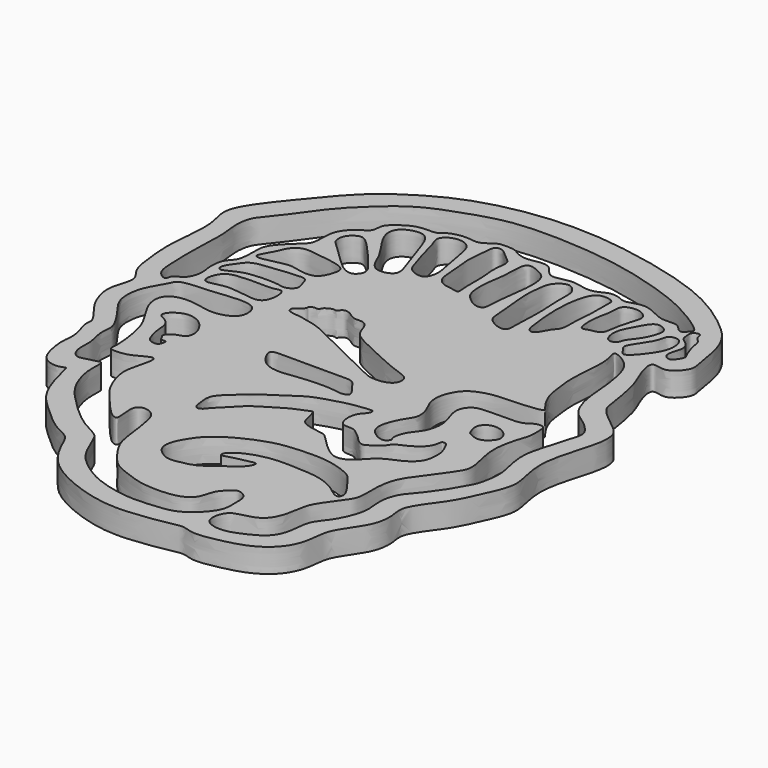
from build123d import *

# Parameters (mm, degrees)
F1_DEPTH = 6.35
F3_DEPTH = 6.35


with BuildPart() as f1:
    # F0 (on Top) → F1 (new body)
    with BuildSketch(Plane.XY):
        with BuildLine():
            add(Edge.make_bspline(
                [(57.3420971632, 19.5309109986), (58.6007502694, 17.8350979225), (63.1631906982, 14.7837725119), (65.7192379605, 11.7266263405), (65.2852353432, 6.5171671063), (63.3124977677, 0.5374782672), (61.7401040248, -6.2464160099), (62.0117362585, -11.2223538792), (63.3456826845, -16.3676346598), (63.2617116481, -20.0199297136), (60.3628025667, -26.6907168304), (57.5562496822, -32.4900621007), (54.1990561112, -36.694448129), (51.2332879467, -41.4674748525), (52.3532145245, -45.0370244781), (51.9247130212, -49.0842918835), (50.542552227, -52.2674079701), (46.1511647205, -58.284220045), (45.8206379188, -61.8232250464), (45.1815153517, -66.8554312845), (42.1928131847, -71.533264546), (36.9190061974, -74.8304506441), (30.1154298909, -76.3967815792), (24.5682467984, -77.3020438311), (21.5958733999, -75.8875942309), (19.169030203, -76.4484698519), (15.3832968822, -77.1799004378), (10.7803103798, -77.8196987402), (1.4372473986, -78.6986431695), (-11.5386004578, -74.3001147734), (-18.3270708536, -69.0656107595), (-21.3897181133, -63.0094824689), (-22.8951534736, -59.1783924003), (-27.6108341497, -57.7311616171), (-33.844883634, -51.8684019497), (-39.8715576725, -46.4828272222), (-42.0281559513, -35.4994488765), (-42.3651483631, -35.4090104114), (-44.3295795813, -36.4314480811), (-47.7985799514, -35.4675949418), (-49.636180417, -32.5249478057), (-50.6387988722, -26.3222545771), (-49.5982826341, -22.797147053), (-51.9104284224, -17.3618339214), (-50.7365911944, -15.3368894224), (-55.417422314, -10.2213755207), (-57.1525107853, -5.9577477562), (-58.1266139176, -1.2377946547), (-55.1929679224, 4.7922227911), (-58.9088402877, 7.5970461167), (-59.7646110245, 15.4670058788), (-60.3184686644, 22.0867653284), (-58.4617364493, 34.4086905126), (-62.065535147, 40.9166718965), (-53.6052029027, 51.6099161176), (-48.7662150174, 57.4763435719), (-42.736348953, 64.6190596252), (-33.7234931566, 70.9898685332), (-24.6838984976, 75.6529656089), (-12.4244284146, 79.005119082), (2.1196359962, 80.1707845401), (18.4021235012, 78.3573963952), (39.3158809141, 73.1840819106), (51.0394492301, 65.1034937377), (57.7083292271, 58.6270218611), (58.9505798802, 49.0454253791), (60.0034364774, 45.2023387777), (56.8316595987, 41.7279054633), (54.4939986432, 41.307479364), (51.1157418137, 42.517563137), (52.0299388674, 37.5336845076), (54.8950895547, 32.0916521126), (56.0495576012, 23.818191622), (56.3660280486, 20.8459919844), (57.3420971632, 19.5309109986)],
                knots=[0, 0, 0, 0, 0.0153737105, 0.0263934228, 0.03863439, 0.0530173302, 0.0677878357, 0.0804324458, 0.0931050771, 0.1037819905, 0.1187860968, 0.1332435296, 0.1464129053, 0.1592672907, 0.1698562757, 0.1808219412, 0.1915637969, 0.206621935, 0.2173371489, 0.2296965349, 0.2427593985, 0.2566243799, 0.2716505769, 0.2848599345, 0.294578999, 0.30320025, 0.3140584686, 0.3261074005, 0.3432425015, 0.3640732496, 0.3805187042, 0.3948666639, 0.4057373289, 0.4176617821, 0.4338199984, 0.4509338519, 0.4685814442, 0.4706946746, 0.4784820423, 0.4888285012, 0.4991414892, 0.5129295098, 0.5240600627, 0.5370434732, 0.5449119164, 0.5589943301, 0.5714264865, 0.5836105166, 0.5971643865, 0.6081930292, 0.6234465075, 0.6386061206, 0.6579918991, 0.6725962307, 0.6922791077, 0.7083501106, 0.7252465887, 0.7438778399, 0.7618093415, 0.7816926147, 0.8030182202, 0.8260013671, 0.8521321383, 0.8732019966, 0.8900348636, 0.907068579, 0.9180221242, 0.9293181588, 0.9381247609, 0.9468424262, 0.9573308866, 0.9720114511, 0.9880778874, 1, 1, 1, 1], degree=3))
        make_face()
    extrude(amount=-F1_DEPTH)

    # F2 (on Top) → F3 (cut)
    with BuildSketch(Plane.XY):
        with BuildLine():
            add(Edge.make_bspline(
                [(-27.8626866639, 37.7302952111), (-26.5948488448, 36.5245322897), (-24.9553026523, 35.0970190076), (-22.2896591809, 34.2008549465), (-20.6245032961, 36.1097855669), (-20.5625130615, 37.8343057887), (-23.1887841131, 41.2522964732), (-28.0898662924, 46.8527501901), (-29.9652758139, 48.4000448395), (-31.557219679, 49.138615945), (-34.5784235934, 47.0206882949), (-34.3393753913, 43.769310011), (-32.8753101088, 42.6914630589), (-29.5239765084, 39.3102462631), (-27.8626866639, 37.7302952111)],
                knots=[0, 0, 0, 0, 0.0955897208, 0.1674561834, 0.2358612461, 0.2928333978, 0.3899286566, 0.5203144924, 0.5927632596, 0.6494141727, 0.7337437652, 0.8118641407, 0.874745626, 1, 1, 1, 1], degree=3))
        make_face()
        with BuildLine():
            add(Edge.make_bspline(
                [(-23.0002496392, 44.4088205695), (-22.4209720095, 43.3219543573), (-21.919777866, 41.6565041752), (-20.1906789893, 39.2932102196), (-17.7436662316, 39.0492593034), (-15.3614268378, 39.9935228425), (-14.8527149343, 42.0883352347), (-16.7984721121, 47.0165364519), (-18.6855093935, 52.8659555397), (-20.0794978279, 56.5771009518), (-22.3716361977, 58.2688353189), (-26.7355835964, 57.0946632228), (-28.1958320217, 54.6151732048), (-27.7811957868, 52.1553112819), (-26.2542213259, 49.2590546017), (-23.7968846488, 45.903502275), (-23.0002496392, 44.4088205695)],
                knots=[0, 0, 0, 0, 0.068995189, 0.1324683654, 0.1921125308, 0.2517087692, 0.3037871831, 0.3933064251, 0.4933426271, 0.5698258813, 0.6314997006, 0.7111345672, 0.7745838826, 0.8332765921, 0.9051163376, 1, 1, 1, 1], degree=3))
        make_face()
        with BuildLine():
            add(Edge.make_bspline(
                [(-17.5519771874, 55.3053691983), (-17.8497891968, 56.1608562303), (-18.659880099, 57.763409061), (-17.3914596919, 59.7240926638), (-14.3822686309, 60.7923578106), (-11.3324947074, 59.5850470367), (-10.2308052017, 56.5006711445), (-9.4561587357, 50.8871216768), (-8.2267672678, 46.0537872841), (-9.364247451, 42.853825453), (-11.3130379641, 42.4794456604), (-14.204762177, 43.720070693), (-14.8013970836, 46.2125902148), (-16.8209434976, 51.9937803348), (-17.2060337086, 54.3116209595), (-17.5519771874, 55.3053691983)],
                knots=[0, 0, 0, 0, 0.0682756406, 0.1281706627, 0.2023391042, 0.274944474, 0.3493628437, 0.4519712719, 0.5487827964, 0.6211263871, 0.6766250433, 0.7477658232, 0.8154707814, 0.9206898585, 1, 1, 1, 1], degree=3))
        make_face()
        with BuildLine():
            add(Edge.make_bspline(
                [(-7.3584350757, 54.4851981103), (-7.3587699473, 55.9397973329), (-6.8454384435, 60.0851270457), (-6.7450837326, 62.4066516813), (-4.6523965352, 62.7978586199), (-3.0973048694, 61.2310500613), (-1.3355256252, 59.8422184682), (0.113312732, 58.6022839439), (-0.8197853249, 54.6658969318), (0.0029405113, 50.2243253883), (-0.3431190506, 45.191370053), (0.1793763552, 41.8064641333), (-0.7436619625, 42.1728713744), (-4.2116951194, 42.3444964568), (-6.3697651643, 44.0742120263), (-6.7813838835, 46.8316245123), (-7.0328276748, 52.3709270984), (-7.3582225434, 53.5620101111), (-7.3584350757, 54.4851981103)],
                knots=[0, 0, 0, 0, 0.0882259293, 0.1419860519, 0.1880015183, 0.2421182561, 0.2980027918, 0.3451568684, 0.4156138894, 0.4956788903, 0.5819227787, 0.6425830924, 0.6694115441, 0.7380186103, 0.7970686187, 0.8585708595, 0.9440058005, 1, 1, 1, 1], degree=3))
        make_face()
        with BuildLine():
            add(Edge.make_bspline(
                [(2.1906888578, 49.0955077112), (2.353857072, 50.5912377548), (2.9362751386, 52.9969946904), (2.8755876114, 57.2793648258), (3.1566641175, 59.8901106714), (4.5694244219, 60.7947106081), (7.3146917425, 59.5944112815), (9.3806420283, 58.4124645772), (10.2707567007, 55.1634503359), (9.7161050593, 48.9493665343), (8.7045758081, 42.8744805375), (8.9446598935, 39.5547889419), (6.4911072422, 39.1549240878), (3.472725969, 41.2970163063), (1.9623033376, 43.774826967), (2.0063130508, 47.40537195), (2.1906888578, 49.0955077112)],
                knots=[0, 0, 0, 0, 0.0787909455, 0.1594474558, 0.2204353933, 0.2646490314, 0.3302855041, 0.3895217702, 0.4570707293, 0.5556615718, 0.6549725237, 0.7193389488, 0.7715321231, 0.8447507992, 0.9109682959, 1, 1, 1, 1], degree=3))
        make_face()
        with BuildLine():
            add(Edge.make_bspline(
                [(12.3842312023, 42.6513142884), (12.1774034805, 44.8486192684), (11.5536737171, 49.7091642142), (12.082309728, 54.2676860932), (12.6585786438, 57.0354101887), (15.3495263385, 59.0889212288), (17.2398528639, 58.4660076201), (18.6506454375, 56.6025695836), (18.6633414544, 54.5656430319), (18.5972920332, 51.0054986147), (18.8587693007, 47.6484649864), (18.9513588167, 43.9089531264), (18.6598112199, 40.2355330574), (18.6864900207, 36.8067179675), (18.5734410686, 35.1736029717), (17.3583299911, 34.6777517133), (15.8491833136, 34.9021313285), (13.0461906612, 36.5100214324), (12.6704361685, 38.656587402), (12.5409227815, 40.9866477521), (12.3842312023, 42.6513142884)],
                knots=[0, 0, 0, 0, 0.0878149403, 0.1580169156, 0.2121328472, 0.2687057505, 0.3120577239, 0.3599445024, 0.4063846288, 0.4678650678, 0.5288704152, 0.5918730957, 0.6558980323, 0.7168683892, 0.7561672692, 0.789737075, 0.8304458414, 0.8873015588, 0.9334718695, 1, 1, 1, 1], degree=3))
        make_face()
        with BuildLine():
            add(Edge.make_bspline(
                [(25.6241187453, 40.7180562615), (25.00543232, 39.8018272344), (24.1446313225, 37.4483584667), (21.9664376315, 37.422989676), (21.3633819149, 41.0853954143), (20.6642614752, 47.7804812558), (21.1396619917, 54.089484371), (22.5263276197, 58.3590456597), (24.6866992029, 59.5210848238), (27.9759037213, 58.9032682586), (27.4367008657, 56.6456616141), (27.9049760458, 52.2074707906), (27.052780661, 47.1021270299), (27.4575480021, 42.3906537528), (26.1282046681, 41.4645703852), (25.6241187453, 40.7180562615)],
                knots=[0, 0, 0, 0, 0.0759278154, 0.123211472, 0.1952590685, 0.3033984844, 0.4078584546, 0.4906472126, 0.5517706017, 0.6181373372, 0.6722480612, 0.7581627865, 0.8538395164, 0.9381364431, 1, 1, 1, 1], degree=3))
        make_face()
        with BuildLine():
            add(Edge.make_bspline(
                [(29.7835562378, 51.4388531446), (29.5915963548, 50.3737727087), (29.4387317394, 48.3701509329), (29.8183768351, 44.6952519844), (31.8647305344, 45.7855699798), (35.0621676137, 45.9322579488), (35.2662859939, 49.164931646), (36.3174070734, 53.6822492656), (37.6642769215, 57.0873427958), (35.1711733213, 58.8769329546), (33.1274498233, 59.0359417816), (30.225075275, 58.1577591538), (30.5763104123, 54.6462247637), (29.9767390414, 52.5107188982), (29.7835562378, 51.4388531446)],
                knots=[0, 0, 0, 0, 0.0899669105, 0.172656483, 0.2359536398, 0.318483099, 0.3993570217, 0.5085506143, 0.5974016153, 0.6743254067, 0.7459555049, 0.8231315411, 0.9094599365, 1, 1, 1, 1], degree=3))
        make_face()
        with BuildLine():
            add(Edge.make_bspline(
                [(36.7550030351, 48.2753403485), (36.9268750846, 49.8870610005), (38.5070657483, 52.4516828407), (40.170707418, 55.8578139176), (42.0433216293, 56.7064604191), (44.5495926434, 55.3362143757), (44.3241118821, 53.2371558044), (43.102101597, 49.5912729971), (40.1552939447, 46.6404303184), (40.1991272831, 44.6627557933), (37.2634977028, 43.9813128807), (36.600117932, 46.8229138485), (36.7550030351, 48.2753403485)],
                knots=[0, 0, 0, 0, 0.1278427366, 0.2408872934, 0.3193568129, 0.4101916784, 0.4899306805, 0.6069052843, 0.7262909203, 0.8023067057, 0.8847925797, 1, 1, 1, 1], degree=3))
        make_face()
        with BuildLine():
            add(Edge.make_bspline(
                [(43.0820323527, 42.8856499493), (42.7157046726, 43.4066277959), (41.7581914689, 44.3752677937), (43.5971913354, 46.9844619237), (46.2657111339, 51.0307989419), (46.2645934492, 53.8956189709), (49.7379931684, 54.295537263), (50.6447987831, 50.9632563189), (50.1193777314, 48.1279017945), (48.1494202558, 44.9651634791), (45.9097484705, 42.2665708179), (44.0749988931, 41.1308785555), (43.4510081331, 42.3609060712), (43.0820323527, 42.8856499493)],
                knots=[0, 0, 0, 0, 0.0713966776, 0.1636646272, 0.287327238, 0.3735463024, 0.4590655017, 0.5526642353, 0.6466466021, 0.7530435006, 0.8583801356, 0.9280872119, 1, 1, 1, 1], degree=3))
        make_face()
        with BuildLine():
            add(Edge.make_bspline(
                [(-41.1611609161, 32.2234369814), (-40.5519271652, 33.4168545421), (-40.0015619234, 35.417168875), (-37.1747693836, 37.5901308126), (-33.4505391945, 36.8147733201), (-28.3049723137, 36.342232117), (-25.2701406439, 35.119033626), (-25.1758393482, 33.0987630329), (-26.4915657484, 29.421296716), (-28.9487008909, 28.495012581), (-31.8725571087, 28.8683530064), (-34.636961988, 29.7848011332), (-39.0184620636, 28.4723278806), (-42.4290684817, 27.9500035559), (-43.2268265642, 28.927677017), (-41.7996811763, 30.9726505791), (-41.1611609161, 32.2234369814)],
                knots=[0, 0, 0, 0, 0.076057159, 0.1471740943, 0.2257891166, 0.3207730164, 0.3898918958, 0.4434511388, 0.5221204683, 0.585617529, 0.65431826, 0.72337164, 0.8121379886, 0.8857018257, 0.9202866931, 1, 1, 1, 1], degree=3))
        make_face()
        with BuildLine():
            add(Edge.make_bspline(
                [(-44.0317578614, 22.8500645608), (-44.6443513802, 21.9591465128), (-45.8433259786, 20.4535345633), (-45.1618797566, 18.4680073513), (-42.3898412074, 20.1015765937), (-39.0724884288, 21.4625548747), (-31.6523263231, 21.6274323242), (-29.2422522076, 20.6355105016), (-26.5954077218, 22.5035905265), (-27.7313137284, 24.7863057327), (-28.0707386361, 26.8957872357), (-30.6608671635, 26.9729615582), (-36.7215864457, 26.2854021103), (-42.2474684751, 25.7896310625), (-43.4092918057, 23.7553406144), (-44.0317578614, 22.8500645608)],
                knots=[0, 0, 0, 0, 0.0748627648, 0.1232893437, 0.1912145418, 0.27764898, 0.3933858181, 0.4627402591, 0.5297390169, 0.5945978871, 0.653051801, 0.715229309, 0.8243928941, 0.9239307494, 1, 1, 1, 1], degree=3))
        make_face()
        with BuildLine():
            add(Edge.make_bspline(
                [(-44.2075058818, 16.1129534245), (-43.903110406, 16.8734358583), (-42.8743386488, 18.4533149628), (-39.729952857, 19.1288907657), (-34.5913270644, 19.2200994203), (-30.8599171977, 19.0074986796), (-28.5959910739, 20.0443854752), (-27.9461090257, 16.8517895226), (-28.8292356464, 13.6043342547), (-31.1507490463, 12.8116226249), (-35.1721134729, 13.51113646), (-38.8480207255, 14.0029420639), (-41.6842051142, 13.1843142685), (-44.1904207656, 12.6947825465), (-44.7048138326, 14.1940719617), (-44.4828282319, 15.4251054518), (-44.2075058818, 16.1129534245)],
                knots=[0, 0, 0, 0, 0.0670669726, 0.1416576574, 0.2396257595, 0.3235165835, 0.3802036129, 0.4484355242, 0.5252513091, 0.5870627155, 0.673039078, 0.7557558672, 0.8301817315, 0.8930252675, 0.9393386631, 1, 1, 1, 1], degree=3))
        make_face()
        with BuildLine():
            add(Edge.make_bspline(
                [(-40.7510772347, 10.1960124448), (-38.9137599882, 10.311767208), (-36.5829233108, 10.7106018865), (-32.4684434858, 10.9936562163), (-28.3057247016, 10.3714491848), (-27.7984145907, 5.5610260688), (-30.667832239, 3.4942610034), (-34.4037095803, 2.795758626), (-38.0284757865, 3.6121294078), (-41.9338611212, 4.3049630514), (-46.5527353202, 3.1326737422), (-47.2994800941, -0.735664015), (-45.8766621849, -4.3543968169), (-43.0786878914, -8.4607142873), (-41.4176754846, -12.1360293375), (-40.140197161, -20.0827073392), (-40.7390034082, -22.8530312262), (-39.7321205679, -23.2389644403), (-36.8343935528, -23.2990666704), (-33.8845886768, -22.0014528446), (-31.938254735, -20.8278284353), (-30.6196202823, -20.4994331508), (-30.1199832798, -22.3146127791), (-32.2939083687, -28.2669716006), (-31.3171416977, -32.6657772506), (-29.5971353669, -37.2490045536), (-25.6707790496, -41.6680573642), (-21.7371997364, -46.316939762), (-20.0920032649, -46.5819052805), (-19.7382535068, -45.9776680139), (-20.2614954214, -42.3927038722), (-20.0478335439, -40.1649939602), (-17.9750077682, -39.1864193425), (-15.1540856859, -40.4208065228), (-14.101051314, -43.5516695873), (-13.2501232442, -49.9139022002), (-12.5888453933, -55.2376658428), (-9.1086525063, -60.0960582941), (-6.3535164779, -63.3167219535), (-1.6882776561, -64.920088672), (2.1732999564, -66.3921065441), (8.2620599062, -66.6896425796), (13.0144953795, -65.9241331975), (15.8541849705, -63.5600234112), (16.3065425043, -59.3948795534), (18.9093058011, -57.2257091349), (20.2511672175, -56.017743249), (23.181296124, -57.3913702408), (23.1176739141, -60.8088559395), (23.3645424349, -65.0809576857), (19.5238339545, -69.4515466508), (15.7105048092, -71.9855225218), (10.6732133189, -72.58997487), (3.9775078834, -72.9857923556), (-1.9678437414, -71.7534853914), (-7.3089801248, -69.9213242087), (-13.1986975346, -65.6730508119), (-15.8067368708, -61.9407742846), (-17.7706527955, -56.8397459351), (-18.8800195859, -54.9577552231), (-23.6151497586, -52.8807224992), (-28.2975130481, -48.9334737965), (-32.8934207275, -44.4871184419), (-36.2309642397, -40.1882677663), (-38.1071008025, -34.1077844503), (-37.7020297342, -30.1442982302), (-37.9853108683, -28.8568664524), (-39.1841395467, -29.1344334421), (-41.3806102842, -29.7504055007), (-44.1838606391, -30.5581001276), (-45.9616839644, -27.2123344662), (-45.1995155419, -23.253216561), (-46.8495126424, -18.7422733722), (-45.909799231, -15.4231778412), (-47.5765177921, -12.1772947531), (-50.1694062024, -8.4148622761), (-53.2031425584, -4.6381382101), (-52.7704800693, 2.3221084739), (-49.1858380654, 7.2545059195), (-48.5518991237, 10.0409130904), (-43.1311744938, 10.0460614251), (-40.7510772347, 10.1960124448)],
                knots=[0, 0, 0, 0, 0.0134485435, 0.0264032426, 0.0387068811, 0.0512386913, 0.0627453773, 0.0751329549, 0.0874713233, 0.100453096, 0.1136903698, 0.1253888902, 0.1380919208, 0.1521760985, 0.1655438033, 0.1838858401, 0.1938671954, 0.19938508, 0.2101861186, 0.2220152069, 0.2317945708, 0.2382439014, 0.245687772, 0.2617596743, 0.2755724503, 0.2894547134, 0.3055662953, 0.3213507402, 0.3284284844, 0.3328546266, 0.345042518, 0.3546082206, 0.3633959754, 0.3739332964, 0.3853577184, 0.4016569408, 0.4167822764, 0.4322094495, 0.4454479939, 0.4593648876, 0.4726034334, 0.4884371958, 0.5025171432, 0.5142487135, 0.5271038223, 0.5386881962, 0.5468321794, 0.5570471709, 0.5684952747, 0.5816619769, 0.5967915854, 0.6104569429, 0.6247730926, 0.641492484, 0.6572814322, 0.6726735046, 0.6897225485, 0.7038046103, 0.7184807523, 0.7278083469, 0.7419230699, 0.7581990618, 0.7744130768, 0.7894645007, 0.8057033928, 0.8184636457, 0.8246620899, 0.830903468, 0.840943685, 0.8511780069, 0.862378107, 0.8754228422, 0.8892995874, 0.9008639713, 0.912767273, 0.9265778069, 0.9404990842, 0.9570855084, 0.9727928195, 0.9825784896, 1, 1, 1, 1], degree=3))
        make_face()
        with BuildLine():
            add(Edge.make_bspline(
                [(-54.4596351683, 14.706951566), (-54.393625757, 13.0712346964), (-54.3274185117, 10.4715056086), (-51.8895360111, 8.6715423096), (-51.014273571, 8.9108294259), (-50.9798267765, 10.4720449067), (-49.5212887603, 11.0709856048), (-47.8096276876, 12.0511060789), (-46.732466354, 15.4296938963), (-47.3695054506, 17.8060660055), (-47.3450207438, 20.8642113993), (-46.5472365361, 23.1755066555), (-44.4803697506, 24.6991557199), (-44.3439073298, 29.7321309171), (-44.4425348033, 33.0879508403), (-40.8394448064, 37.0474891658), (-38.2847560067, 39.0787546428), (-37.0009711173, 41.0088373367), (-37.4169360425, 45.953748076), (-35.7031447595, 49.0593562158), (-33.5210224828, 50.9728815504), (-30.7253661594, 52.3160848987), (-31.2664042837, 55.3918979536), (-28.6362108796, 57.6372227733), (-25.4972423888, 59.5938384946), (-22.6445675163, 59.8098353562), (-19.8559161723, 59.7036151544), (-18.733805984, 61.2243795351), (-15.0782749354, 62.3712896568), (-12.1447595774, 61.9696264693), (-10.1939503645, 61.8007377818), (-7.8356886263, 63.6697466996), (-6.5080043127, 64.3880584992), (-2.531226527, 64.3054727855), (-1.3334622419, 63.0793388101), (1.7027561886, 62.1992442969), (4.8034211846, 63.0885917234), (7.880575258, 62.9224021076), (9.4632353913, 60.0291566499), (11.4873440767, 59.3468056382), (15.2290519703, 60.4909381681), (17.1503274952, 60.2150786194), (19.6632354389, 59.5650369089), (22.3175323912, 59.6865653488), (24.67003703, 61.3697174783), (27.6276096302, 61.1344687716), (29.3232675998, 59.9023779637), (32.1356234292, 60.9941030066), (34.9111329512, 61.4517080434), (38.3891850445, 59.7026239807), (40.9762462488, 58.5577291233), (44.9097914116, 59.2755506859), (46.1429743326, 57.275339835), (47.5668342569, 56.618327256), (48.8610634172, 58.3631041536), (49.64085628, 59.1962207931), (42.9527463883, 63.9263177019), (35.3417940717, 67.4802549684), (24.7156090951, 70.8333316211), (13.6588702022, 73.0978651593), (0.0214389242, 74.0420946236), (-11.633732324, 73.629502473), (-21.3606082569, 70.4070735979), (-31.4586251249, 66.7785308732), (-39.2584772362, 59.5763375238), (-44.5639402157, 54.2781797493), (-51.0248165612, 44.5226003711), (-54.6560677383, 41.060799916), (-55.0019219234, 35.8117660252), (-54.0907803884, 31.7981976356), (-54.8397669304, 22.103993183), (-54.5469566361, 16.8707823756), (-54.4596351683, 14.706951566)],
                knots=[0, 0, 0, 0, 0.0153082888, 0.0270819566, 0.0328646989, 0.0412849728, 0.050127762, 0.0603779114, 0.0737675054, 0.0855285815, 0.0983107396, 0.1095673049, 0.1208862805, 0.1369559042, 0.1506501293, 0.1673272193, 0.1807082536, 0.191481429, 0.2076106662, 0.2214163716, 0.2340178951, 0.2461861529, 0.2580221827, 0.2713222026, 0.2855425934, 0.2981338477, 0.3098949217, 0.3196007268, 0.3337987704, 0.3465846109, 0.3567184858, 0.3690101278, 0.3785192863, 0.3926195459, 0.4023449285, 0.4149336051, 0.42837842, 0.4407358224, 0.4534223565, 0.4638330121, 0.4781452732, 0.4885898719, 0.5002921738, 0.5121880733, 0.5245779696, 0.536853001, 0.5471174127, 0.5593966052, 0.5718174013, 0.5860591492, 0.5987506988, 0.612737057, 0.6233955878, 0.6315736305, 0.6418921568, 0.648015063, 0.6674894778, 0.6901353907, 0.7144576628, 0.739495668, 0.7668503536, 0.7920565898, 0.8155639481, 0.8397859592, 0.8634031088, 0.8842088057, 0.909213575, 0.9257342067, 0.9416048564, 0.9568266186, 0.9797492172, 1, 1, 1, 1], degree=3))
        make_face()
        with BuildLine():
            add(Edge.make_bspline(
                [(51.7477020621, 48.9783398807), (51.9972879859, 49.8810840975), (52.6078471378, 51.5144707736), (51.4702261511, 53.5544891786), (49.4128509502, 54.5064369627), (49.3672709096, 56.4418394347), (49.113284529, 57.77928164), (50.8573202971, 58.7599893727), (51.5094653495, 58.0012363211), (51.5369343181, 56.7137507852), (53.2881460105, 55.4914328846), (53.2898344556, 53.4100896224), (53.9476944105, 51.5991606257), (54.7359485289, 49.2887950965), (55.5126813744, 48.3869989136), (53.9597701408, 46.0421089528), (53.1163486559, 45.5318777485), (51.1949514931, 46.4733166644), (51.5093310259, 48.1161595497), (51.7477020621, 48.9783398807)],
                knots=[0, 0, 0, 0, 0.0724266123, 0.1372199727, 0.2018999356, 0.2612110549, 0.3115956774, 0.3679818138, 0.406642022, 0.4556092633, 0.5179846272, 0.5803002453, 0.6441341657, 0.7132887504, 0.7590385198, 0.8302255289, 0.8736265341, 0.9308278032, 1, 1, 1, 1], degree=3))
        make_face()
        with BuildLine():
            add(Edge.make_bspline(
                [(43.3501154184, 20.4309597611), (43.0764725087, 22.2407283905), (42.4946409225, 26.8007524479), (43.3631516012, 32.9199168492), (43.3215400137, 38.0000037183), (42.2965219057, 40.5834170266), (43.1914956973, 40.8800166676), (46.4296881717, 39.3160207988), (48.7347901345, 36.2669320871), (49.7191314916, 31.7996634431), (50.3630009263, 27.2570911593), (50.6127736978, 21.3328284112), (52.7132076836, 14.9055503712), (56.685125614, 12.7707288445), (59.1226103721, 10.3439623061), (60.5182382244, 8.2938090439), (59.2973304556, 4.1464951556), (57.3416312372, -2.2056202112), (56.2161913441, -6.831473543), (57.0278561957, -12.2918392702), (58.224110808, -16.0678563004), (57.4007425773, -21.7936257366), (56.0141954272, -24.8330569238), (52.2406722501, -31.1046187375), (48.7284720907, -35.0662466544), (46.8706249483, -37.6036788837), (45.8560586565, -41.8060029606), (46.784441533, -45.8449985784), (45.7904100441, -49.7528078677), (43.8698626487, -54.0845446891), (40.6210898632, -57.6299844931), (40.2175892655, -60.714561036), (39.8303649342, -64.8402082638), (37.8894488028, -68.4671286899), (33.2727338882, -70.8123323664), (29.0536817223, -72.4796441053), (25.3726824662, -71.9492947349), (23.5553037061, -70.5135688743), (23.3589917701, -67.6750146854), (24.9327989382, -64.9844412205), (26.9816682313, -64.4996954625), (29.575179257, -63.8833320934), (32.4292926009, -62.6699253076), (34.4733491912, -59.2057809583), (35.2352142712, -54.1733748025), (35.7337399501, -51.7511319522), (39.0545281049, -46.783517627), (41.9239268729, -43.4628161204), (41.5159587295, -38.628903422), (42.0205765726, -33.1058545826), (44.2299247011, -29.2686648493), (47.2570352932, -25.3607279455), (49.9464013674, -21.5154114244), (51.8541864435, -18.6554219204), (50.9143388282, -14.0227812599), (50.0763389345, -10.9000006485), (49.9321024316, -6.6375695502), (51.2619244936, -1.6619173644), (52.263891634, 0.8366617313), (52.1404542863, 4.1361511576), (51.9627109197, 5.9669380524), (49.3605585995, 5.8602286793), (47.6845291042, 4.1028414244), (43.5902916146, 3.873656618), (37.5861966836, 4.0449419845), (34.5852429175, 3.4984219431), (32.9157447598, 1.0548619271), (33.0910648523, -1.8376625853), (35.068334875, -6.0425607026), (33.7442492506, -11.431198511), (30.9788014142, -13.7674930909), (30.0143621806, -17.7797698886), (31.0063059668, -18.4189047547), (29.7063174819, -20.2266243933), (26.780592946, -19.0753214598), (24.6845459827, -16.7849889964), (24.9787661254, -13.5007104353), (26.8148939802, -9.5341753876), (28.7281847954, -7.2809451934), (28.2280665607, -3.7089903198), (26.354663372, -0.7401042155), (25.9459166563, 3.085355149), (27.9741551431, 7.5030545673), (30.8102539146, 9.3905399634), (35.0044959085, 10.6222885851), (40.7333064939, 10.628756297), (45.3003493506, 11.012231513), (47.3152896612, 11.500246125), (47.094560912, 12.1253582917), (45.9860822087, 13.2491953123), (43.9776949277, 16.7211335706), (43.5658115335, 19.0044288746), (43.3501154184, 20.4309597611)],
                knots=[0, 0, 0, 0, 0.0144970142, 0.0291253682, 0.0423615193, 0.051042932, 0.0551455571, 0.0657188152, 0.0771756262, 0.0893437693, 0.1017322369, 0.1159516192, 0.1306491445, 0.1426946121, 0.1532765055, 0.1618006498, 0.1734473434, 0.1885163938, 0.2012848161, 0.2145153848, 0.226248967, 0.2396785548, 0.2505057517, 0.2660601286, 0.2794805262, 0.2895657991, 0.301291581, 0.3129858609, 0.3244197826, 0.3370980397, 0.3495439089, 0.3595837737, 0.3712071714, 0.3826821185, 0.3956900771, 0.4081077999, 0.4189034954, 0.4271910114, 0.436556243, 0.4463876298, 0.4545338131, 0.4639387015, 0.4738782639, 0.4853609568, 0.4982172847, 0.5074749678, 0.5213686463, 0.5334142756, 0.545799413, 0.5593532623, 0.5714286773, 0.5843236789, 0.5968516366, 0.6073159247, 0.6194681493, 0.629989914, 0.6418915353, 0.6549314358, 0.6645751805, 0.6749829754, 0.6820114416, 0.6902403481, 0.6990164318, 0.7105702065, 0.7249326987, 0.7347836856, 0.7440172487, 0.7535919905, 0.7659648645, 0.7790649822, 0.7903416174, 0.8012851559, 0.8064887167, 0.81362753, 0.8233093848, 0.8332228821, 0.8433795389, 0.8554608413, 0.8652132905, 0.8756446478, 0.8864639379, 0.8976125015, 0.9100349265, 0.9204940468, 0.9324028786, 0.9464467695, 0.9591392183, 0.9664674521, 0.9700269305, 0.9771277182, 0.9885728827, 1, 1, 1, 1], degree=3))
        make_face()
        with BuildLine():
            add(Edge.make_bspline(
                [(-7.9300757498, 9.0172849596), (-9.8292378314, 9.9872647023), (-13.4151444252, 11.9442720829), (-19.5895814194, 13.0161896033), (-22.248378701, 13.220419714), (-22.4542352626, 14.8839850294), (-20.6519361204, 15.7238846482), (-19.9620551774, 16.6940404323), (-20.153881988, 17.3584261198), (-19.0048198063, 18.0261014199), (-17.7971079773, 17.565359251), (-17.2828480254, 18.8935623821), (-16.6834067308, 19.114150854), (-15.3226233808, 19.9871989573), (-14.3054037518, 19.3039292755), (-13.9216931676, 20.643644998), (-12.4431880169, 21.018023245), (-10.8440967631, 20.0036253974), (-9.3288101694, 18.9128122464), (-7.5770964643, 19.3299551655), (-5.9255651502, 18.6971941465), (-5.1019766391, 16.7027339466), (-4.5141399713, 14.6814032593), (-2.500877696, 12.8973626305), (2.2454308463, 10.725852905), (7.5301819919, 8.2180696289), (12.2724685123, 6.2183834324), (15.2622524583, 5.4146170644), (16.00687957, 3.6502964949), (15.3804049719, 1.5484901466), (12.7705437182, 0.4206904861), (9.0015765794, 0.5362732622), (6.0531107647, 2.3769769929), (1.0901436485, 4.578871975), (-2.5296365723, 6.36774772), (-6.0871670257, 8.0760361071), (-7.9300757498, 9.0172849596)],
                knots=[0, 0, 0, 0, 0.0481937077, 0.0961672905, 0.1249477574, 0.1448636289, 0.1710842859, 0.1911521791, 0.2052788054, 0.225440353, 0.2455684655, 0.2657824813, 0.281524814, 0.304904048, 0.3227441833, 0.3421221208, 0.3640181763, 0.3900973774, 0.4157319742, 0.4404814739, 0.4645716411, 0.4919666649, 0.519308707, 0.5495573188, 0.5930827986, 0.6403176044, 0.6840101983, 0.7163184249, 0.7405493274, 0.7669917353, 0.7980988258, 0.8343597906, 0.8702146914, 0.9141993103, 0.9532337944, 1, 1, 1, 1], degree=3))
        make_face()
        with BuildLine():
            add(Edge.make_bspline(
                [(-35.3384241462, -12.2506394982), (-35.4755204255, -12.0017043974), (-35.9279658301, -11.6665808908), (-35.1117694211, -10.2470721741), (-33.0332173852, -9.3217069375), (-31.3310994887, -8.9917991704), (-30.7766994168, -6.4273073254), (-32.0435712339, -3.7730222272), (-33.9480744039, -1.6511250863), (-37.2415572292, -0.6883204091), (-39.7616563325, -1.6783453754), (-41.6376700894, -3.2569389559), (-41.8337197523, -4.8764452865), (-40.0275121234, -5.4927509501), (-38.3056633992, -6.9991029957), (-38.0830127765, -9.2705864018), (-37.9520882373, -11.5139973678), (-37.2663577484, -13.2758196633), (-36.791037003, -14.8094106598), (-35.2615061367, -15.5068532396), (-33.6692975261, -15.353737901), (-33.4383239872, -13.791144405), (-33.3439740785, -13.0429145001), (-34.990596472, -13.5450224995), (-35.1663965303, -12.5630018184), (-35.3384241462, -12.2506394982)],
                knots=[0, 0, 0, 0, 0.0276409271, 0.0652396603, 0.1152068207, 0.1561442779, 0.2048072212, 0.2606286689, 0.3156399609, 0.3741643606, 0.4276483551, 0.478012805, 0.5141289952, 0.556562391, 0.6051944089, 0.6537715735, 0.7030435098, 0.7480427497, 0.7883010761, 0.8293031067, 0.8672891667, 0.9064569366, 0.9291528416, 0.9653163251, 1, 1, 1, 1], degree=3))
        make_face()
        with BuildLine():
            add(Edge.make_bspline(
                [(-2.6107039303, -52.9527589679), (-3.3036671535, -52.4278381632), (-4.5969957008, -51.1129996681), (-4.515668735, -47.6556474443), (-1.937804719, -43.6741372681), (-0.7190498421, -42.0269374418), (3.1080763556, -38.7975063632), (9.4033446867, -35.8272215434), (14.649999852, -34.2890391249), (21.7023904463, -33.9277207131), (27.1983242038, -34.1169450807), (32.5759607807, -36.0451382644), (34.3639082232, -37.4165338463), (37.1515242885, -41.3780265405), (38.830098644, -43.8967807272), (38.0566662122, -45.8519804331), (35.9573677055, -44.7620596297), (34.1751288338, -43.0572828348), (29.485348862, -40.9451661397), (23.6824992675, -40.7909953449), (17.4693019264, -40.36559707), (11.2472176902, -41.9401503557), (8.1691410072, -43.91787936), (7.1573216897, -45.2772749058), (7.275377724, -46.2519272785), (8.9393663365, -45.6583370508), (12.1769251826, -44.9303378932), (14.922426975, -44.2722762064), (15.729780129, -44.5334539676), (14.8417903803, -47.0065368976), (10.9300044998, -49.394312644), (6.8660119058, -52.9787324913), (2.8510265558, -53.8459378044), (-0.2474013283, -54.4037709578), (-1.9023760708, -53.4893185102), (-2.6107039303, -52.9527589679)],
                knots=[0, 0, 0, 0, 0.0258137024, 0.0551435771, 0.0900412168, 0.113552924, 0.1490797539, 0.1923125829, 0.2307550071, 0.273426905, 0.3126493881, 0.3502797981, 0.3749377979, 0.4105884899, 0.4389314606, 0.4579080986, 0.4798626888, 0.5060522171, 0.542148872, 0.5816026086, 0.6225756198, 0.6637568462, 0.6945657321, 0.7147690995, 0.727289519, 0.7462654827, 0.7775494865, 0.8046850708, 0.8160704381, 0.8391386577, 0.8746290023, 0.9126906818, 0.945400034, 0.9736139467, 1, 1, 1, 1], degree=3))
        make_face()
        with BuildLine():
            add(Edge.make_bspline(
                [(41.467115283, -5.8363941498), (41.2993881644, -5.476307405), (40.2676688387, -3.4873323954), (41.4317839933, -1.0303649183), (43.9906850433, -0.2605619916), (46.3179869477, -0.9949815999), (47.8421586722, -2.5027831719), (48.2488475301, -4.5007799449), (46.7560266265, -6.2366354828), (44.5134037709, -7.6884287815), (41.5859397201, -6.1546638874), (41.5312831467, -5.9741536091), (41.467115283, -5.8363941498)],
                knots=[0, 0, 0, 0, 0.1072920221, 0.2172310075, 0.3263814315, 0.4335450445, 0.5337409786, 0.627111812, 0.7289034879, 0.8412751035, 0.9589529713, 1, 1, 1, 1], degree=3))
        make_face()
        with BuildLine():
            add(Edge.make_bspline(
                [(-1.9286716124, -8.7267933413), (-3.7482197526, -8.9433991078), (-6.1902150392, -9.4615113356), (-10.6510601295, -8.7882620498), (-12.9321415879, -5.979617464), (-14.1161573728, -3.3166745155), (-11.8013124025, -2.717940358), (-7.4977766193, -3.0850142416), (-0.6564573298, -2.6844082469), (4.0465710571, -2.9804732827), (7.6979137231, -2.746262527), (8.9061948966, -4.287087467), (10.8154220659, -6.7073663284), (11.5251879368, -8.3477632139), (9.3519998993, -9.0833783892), (6.2561774344, -8.1008241913), (0.5288593786, -8.4342397275), (-1.9286716124, -8.7267933413)],
                knots=[0, 0, 0, 0, 0.0761294885, 0.1485812566, 0.2170649341, 0.2710012196, 0.3168697072, 0.3924870856, 0.4872532291, 0.5670716032, 0.6317428678, 0.6799657799, 0.7439340973, 0.7857747335, 0.8314677422, 0.8971774513, 1, 1, 1, 1], degree=3))
        make_face()
        with BuildLine():
            add(Edge.make_bspline(
                [(-4.0939841419, -27.4157300591), (-4.7724674096, -28.1205031058), (-7.6677268647, -30.7535273216), (-8.3687856962, -32.2547190327), (-10.3584406196, -32.9760495894), (-10.8072549968, -29.9562727989), (-11.0420255598, -27.5088678695), (-10.1269806777, -25.662819698), (-7.8965083647, -23.6199129747), (-5.0861008982, -21.0427954389), (-1.6554633656, -18.4721377494), (1.3574698994, -16.7178884503), (3.9300479182, -14.7271554336), (6.9546067584, -13.3234945018), (10.8636538409, -12.2328106647), (14.1216144839, -11.2637672324), (18.6504491072, -10.7392939628), (19.8996458382, -10.7704693018), (19.4491269327, -12.4997111129), (17.745474301, -13.7919007719), (17.3355370825, -16.4343982332), (17.6767172257, -18.4288715271), (18.7900423695, -19.8439468714), (21.3317787483, -19.4326525185), (22.9203104809, -20.6379514141), (24.5612037263, -21.9261228979), (26.2382085357, -23.9347551705), (27.9447288521, -24.0662651803), (29.4563954982, -22.6612800119), (31.5603696291, -21.3460801571), (32.0708219026, -19.9244171747), (33.7104256085, -19.2365149768), (35.3689996932, -18.4902550227), (37.5740766356, -17.06142639), (38.6742431626, -15.7234075462), (39.3866584258, -14.3232618192), (39.336461633, -12.61863676), (40.7796636915, -12.6906809837), (41.4307038575, -14.2248035591), (42.4757404038, -16.2901022968), (42.5062869535, -19.1854549213), (41.9587704688, -21.9281690065), (39.2517541675, -24.3533619225), (36.1655850877, -25.5126694474), (33.817641224, -26.7426454539), (31.6844804256, -28.8648668748), (29.8570574361, -31.0568139683), (26.6452362842, -32.3103223002), (23.831615117, -30.7241177201), (21.040912973, -28.1509626534), (18.9931334246, -25.9930753909), (18.2428260449, -25.3026078462), (15.0435180208, -24.9146933512), (11.4966731861, -24.0897669864), (11.0586589719, -21.6246107748), (10.4796263419, -19.5828060314), (10.1814831878, -18.6740207146), (8.5794744166, -19.4424193594), (5.4029101847, -20.6212482775), (2.0056761138, -22.7657314533), (-1.4561761095, -24.7889660299), (-3.5644144105, -26.7478629163), (-3.7983653891, -27.1086567103), (-4.0939841419, -27.4157300591)],
                knots=[0, 0, 0, 0, 0.0230007878, 0.0374380405, 0.0496749547, 0.0663861116, 0.0833802481, 0.0979035085, 0.1160291664, 0.1369009427, 0.1588017426, 0.178537198, 0.1973499003, 0.2166401672, 0.2376120251, 0.2579146045, 0.2803747468, 0.2900091892, 0.3021509717, 0.3176738284, 0.3345103359, 0.3494813166, 0.362531549, 0.378626095, 0.3931764267, 0.408666115, 0.4254511819, 0.4380844213, 0.4530857421, 0.4696216058, 0.4820906794, 0.4955262051, 0.5100996972, 0.527099628, 0.5409742252, 0.5542685959, 0.5667992897, 0.5770069461, 0.5901387911, 0.606286094, 0.6240731217, 0.6414478537, 0.6611008701, 0.6803109755, 0.6974039773, 0.715501029, 0.7334606454, 0.7519955594, 0.770301032, 0.7914061711, 0.8091955332, 0.8194059279, 0.8381519946, 0.8577393708, 0.8735895859, 0.8891587365, 0.8977232679, 0.9101748855, 0.9299299536, 0.9513570292, 0.9729713765, 0.989978435, 1, 1, 1, 1], degree=3))
        make_face()
    extrude(amount=-F3_DEPTH, mode=Mode.SUBTRACT)


solid = f1.part
